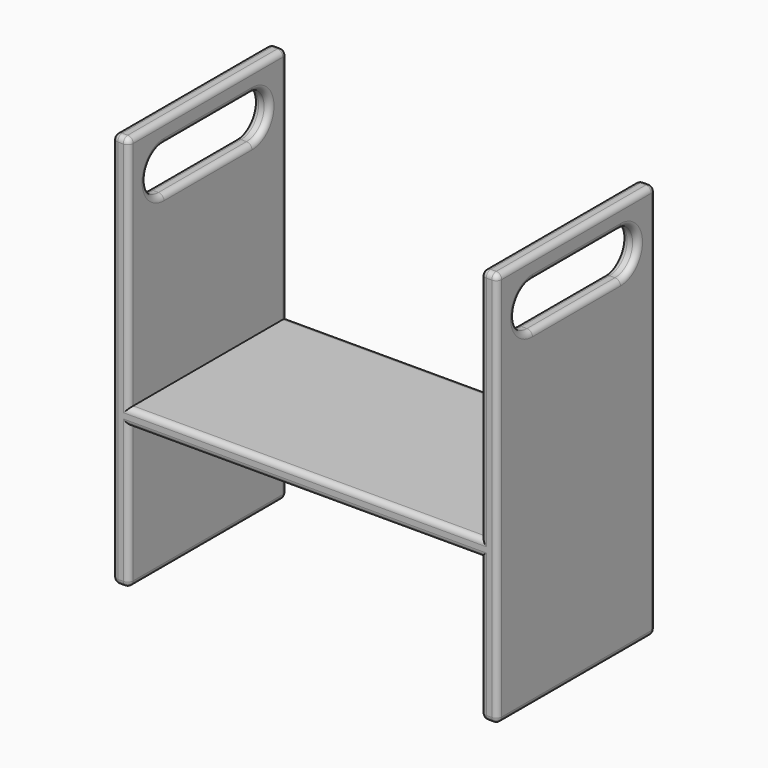
from build123d import *

# Parameters (mm, degrees)
F0_W     = 419.1
F0_H     = 228.6
F1_DEPTH = 19.05
F3_DEPTH = 228.6
F5_DEPTH = 444.501
F6_R     = 6.35
F7_R     = 6.35
F8_R     = 6.35
F9_R     = 6.35


with BuildPart() as f1:
    # F0 (on Top) → F1 (new body)
    with BuildSketch(Plane.XY):
        Rectangle(F0_W, F0_H)
    extrude(amount=F1_DEPTH)

    # F2 (on face) → F3 (join, through all)
    with BuildSketch(Plane.XZ.offset(114.3)):
        Polygon((203.2, 0), (203.2, -165.1), (222.25, -165.1), (222.25, 292.1), (203.2, 292.1), (203.2, 19.05), (209.55, 19.05), (209.55, 0), align=None)
        Polygon((-203.2, 19.05), (-203.2, 292.1), (-222.25, 292.1), (-222.25, -165.1), (-203.2, -165.1), (-203.2, 0), (-209.55, 0), (-209.55, 19.05), align=None)
    extrude(amount=-F3_DEPTH)

    # F4 (on face) → F5 (cut, through all)
    with BuildSketch(Plane.YZ.offset(222.25)):
        with BuildLine():
            Line((63.5, 266.7), (-63.5, 266.7))
            ThreePointArc((-63.5, 266.7), (-88.9, 241.3), (-63.5, 215.9))
            Line((-63.5, 215.9), (63.5, 215.9))
            ThreePointArc((63.5, 215.9), (88.9, 241.3), (63.5, 266.7))
        make_face()
    extrude(amount=-F5_DEPTH, mode=Mode.SUBTRACT)

    # F6
    f6_edges = [f1.edges().sort_by_distance(p)[0] for p in [
        (222.25, 0, 215.9),
        (-203.2, 0, 215.9),
        (203.2, 0, 266.7),
        (-222.25, 0, 266.7),
    ]]
    fillet(f6_edges, radius=F6_R)

    # F7
    f7_edges = [f1.edges().sort_by_distance(p)[0] for p in [
        (222.25, 114.3, 63.5),
        (203.2, 114.3, 155.575),
        (222.25, 0, 292.1),
        (212.725, 114.3, 292.1),
        (203.2, 0, 292.1),
        (212.725, -114.3, 292.1),
        (222.25, -114.3, 63.5),
        (203.2, -114.3, 155.575),
        (212.725, 114.3, -165.1),
        (203.2, 114.3, -82.55),
        (203.2, 0, -165.1),
        (222.25, 0, -165.1),
        (212.725, -114.3, -165.1),
        (203.2, -114.3, -82.55),
    ]]
    fillet(f7_edges, radius=F7_R)

    # F8
    f8_edges = [f1.edges().sort_by_distance(p)[0] for p in [
        (-203.2, 114.3, 155.575),
        (-212.725, 114.3, 292.1),
        (-222.25, 114.3, 63.5),
        (-203.2, 0, 292.1),
        (-222.25, 0, 292.1),
        (-212.725, -114.3, 292.1),
        (-203.2, -114.3, 155.575),
        (-222.25, -114.3, 63.5),
        (-203.2, -114.3, -82.55),
        (-212.725, -114.3, -165.1),
        (-203.2, 0, -165.1),
        (-222.25, 0, -165.1),
        (-212.725, 114.3, -165.1),
        (-203.2, 114.3, -82.55),
    ]]
    fillet(f8_edges, radius=F8_R)

    # F9
    f9_edges = [f1.edges().sort_by_distance(p)[0] for p in [
        (0, 114.3, 19.05),
        (0, 114.3, 0),
        (0, -114.3, 19.05),
        (0, -114.3, 0),
    ]]
    fillet(f9_edges, radius=F9_R)


solid = f1.part
